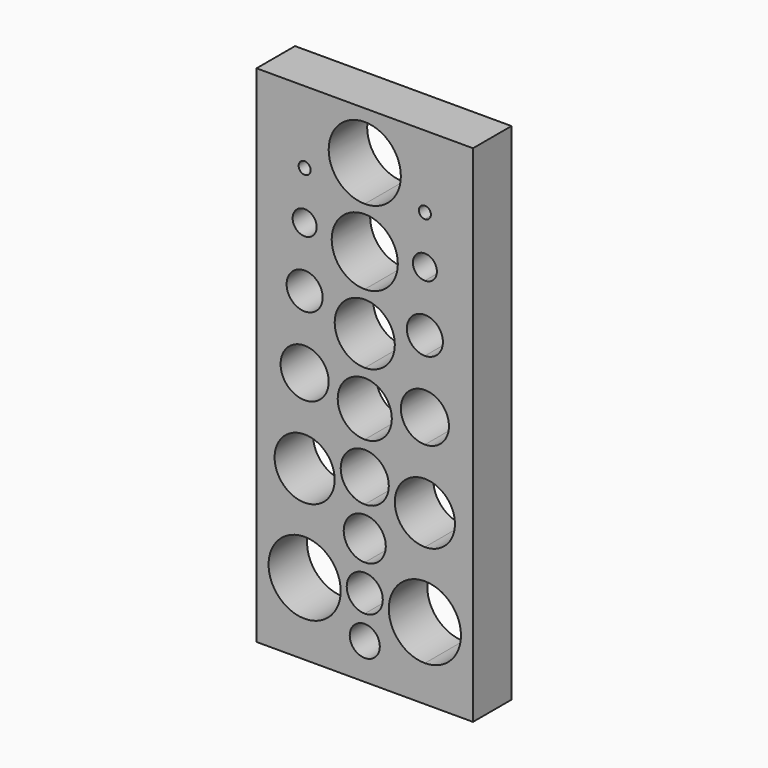
from build123d import *

# Parameters (mm, degrees)
F0_W     = 114.3
F0_H     = 266.7
F1_DEPTH = 25.4
F2_R     = 3.175
F2_R_2   = 6.35
F2_R_3   = 9.525
F2_R_4   = 12.7
F2_R_5   = 15.875
F2_R_6   = 19.05
F3_DEPTH = 25.4
F5_DEPTH = 25.4


with BuildPart() as f1:
    # F0 (on Front) → F1 (new body)
    with BuildSketch(Plane.XZ):
        with Locations((-57.15, 133.35)):
            Rectangle(F0_W, F0_H)
    extrude(amount=F1_DEPTH)

    # F2 (on face) → F3 (cut)
    with BuildSketch(Plane.XZ.offset(25.4)):
        with BuildLine():
            ThreePointArc((-25.4, 57.15), (-44.45, 38.1), (-25.4, 19.05))
            Line((-25.4, 19.05), (-25.4, 38.1))
            Line((-25.4, 38.1), (-25.4, 57.15))
        make_face()
        with BuildLine():
            ThreePointArc((-25.4, 231.775), (-28.575, 228.6), (-25.4, 225.425))
            Line((-25.4, 225.425), (-25.4, 228.6))
            Line((-25.4, 228.6), (-25.4, 231.775))
        make_face()
        with BuildLine():
            Line((-25.4, 228.6), (-25.4, 225.425))
            ThreePointArc((-25.4, 225.425), (-23.154936, 226.354936), (-22.225, 228.6))
            ThreePointArc((-22.225, 228.6), (-23.154936, 230.845064), (-25.4, 231.775))
            Line((-25.4, 231.775), (-25.4, 228.6))
        make_face()
        with BuildLine():
            ThreePointArc((-25.4, 209.55), (-31.75, 203.2), (-25.4, 196.85))
            Line((-25.4, 196.85), (-25.4, 203.2))
            Line((-25.4, 203.2), (-25.4, 209.55))
        make_face()
        with BuildLine():
            Line((-25.4, 203.2), (-25.4, 196.85))
            ThreePointArc((-25.4, 196.85), (-20.909872, 198.709872), (-19.05, 203.2))
            ThreePointArc((-19.05, 203.2), (-20.909872, 207.690128), (-25.4, 209.55))
            Line((-25.4, 209.55), (-25.4, 203.2))
        make_face()
        with BuildLine():
            ThreePointArc((-25.4, 180.975), (-34.925, 171.45), (-25.4, 161.925))
            Line((-25.4, 161.925), (-25.4, 171.45))
            Line((-25.4, 171.45), (-25.4, 180.975))
        make_face()
        with BuildLine():
            Line((-25.4, 171.45), (-25.4, 161.925))
            ThreePointArc((-25.4, 161.925), (-18.664808, 164.714808), (-15.875, 171.45))
            ThreePointArc((-15.875, 171.45), (-18.664808, 178.185192), (-25.4, 180.975))
            Line((-25.4, 180.975), (-25.4, 171.45))
        make_face()
        with BuildLine():
            ThreePointArc((-25.4, 146.05), (-38.1, 133.35), (-25.4, 120.65))
            Line((-25.4, 120.65), (-25.4, 133.35))
            Line((-25.4, 133.35), (-25.4, 146.05))
        make_face()
        with BuildLine():
            Line((-25.4, 133.35), (-25.4, 120.65))
            ThreePointArc((-25.4, 120.65), (-16.419744, 124.369744), (-12.7, 133.35))
            ThreePointArc((-12.7, 133.35), (-16.419744, 142.330256), (-25.4, 146.05))
            Line((-25.4, 146.05), (-25.4, 133.35))
        make_face()
        with BuildLine():
            ThreePointArc((-25.4, 104.775), (-41.275, 88.9), (-25.4, 73.025))
            Line((-25.4, 73.025), (-25.4, 88.9))
            Line((-25.4, 88.9), (-25.4, 104.775))
        make_face()
        with BuildLine():
            Line((-25.4, 88.9), (-25.4, 73.025))
            ThreePointArc((-25.4, 73.025), (-14.17468, 77.67468), (-9.525, 88.9))
            ThreePointArc((-9.525, 88.9), (-14.17468, 100.12532), (-25.4, 104.775))
            Line((-25.4, 104.775), (-25.4, 88.9))
        make_face()
        with BuildLine():
            Line((-25.4, 38.1), (-25.4, 19.05))
            ThreePointArc((-25.4, 19.05), (-11.929616, 24.629616), (-6.35, 38.1))
            ThreePointArc((-6.35, 38.1), (-11.929616, 51.570384), (-25.4, 57.15))
            Line((-25.4, 57.15), (-25.4, 38.1))
        make_face()
        with Locations((-88.9, 228.6)):
            Circle(F2_R)
        with Locations((-88.9, 203.2)):
            Circle(F2_R_2)
        with Locations((-88.9, 171.45)):
            Circle(F2_R_3)
        with Locations((-88.9, 133.35)):
            Circle(F2_R_4)
        with Locations((-88.9, 88.9)):
            Circle(F2_R_5)
        with Locations((-88.9, 38.1)):
            Circle(F2_R_6)
    extrude(amount=-F3_DEPTH, mode=Mode.SUBTRACT)

    # F4 (on face) → F5 (cut)
    with BuildSketch(Plane.XZ.offset(25.4)):
        with BuildLine():
            ThreePointArc((-57.15, 260.35), (-76.2, 241.3), (-57.15, 222.25))
            Line((-57.15, 222.25), (-57.15, 241.3))
            Line((-57.15, 241.3), (-57.15, 260.35))
        make_face()
        with BuildLine():
            Line((-57.15, 241.3), (-57.15, 222.25))
            ThreePointArc((-57.15, 222.25), (-43.679616, 227.829616), (-38.1, 241.3))
            ThreePointArc((-38.1, 241.3), (-43.679616, 254.770384), (-57.15, 260.35))
            Line((-57.15, 260.35), (-57.15, 241.3))
        make_face()
        with BuildLine():
            ThreePointArc((-57.15, 217.4875), (-74.6125, 200.025), (-57.15, 182.5625))
            Line((-57.15, 182.5625), (-57.15, 200.025))
            Line((-57.15, 200.025), (-57.15, 217.4875))
        make_face()
        with BuildLine():
            Line((-57.15, 200.025), (-57.15, 182.5625))
            ThreePointArc((-57.15, 182.5625), (-44.802148, 187.677148), (-39.6875, 200.025))
            ThreePointArc((-39.6875, 200.025), (-44.802148, 212.372852), (-57.15, 217.4875))
            Line((-57.15, 217.4875), (-57.15, 200.025))
        make_face()
        with BuildLine():
            ThreePointArc((-57.15, 177.8), (-73.025, 161.925), (-57.15, 146.05))
            Line((-57.15, 146.05), (-57.15, 161.925))
            Line((-57.15, 161.925), (-57.15, 177.8))
        make_face()
        with BuildLine():
            Line((-57.15, 161.925), (-57.15, 146.05))
            ThreePointArc((-57.15, 146.05), (-45.92468, 150.69968), (-41.275, 161.925))
            ThreePointArc((-41.275, 161.925), (-45.92468, 173.15032), (-57.15, 177.8))
            Line((-57.15, 177.8), (-57.15, 161.925))
        make_face()
        with BuildLine():
            ThreePointArc((-57.15, 141.2875), (-71.4375, 127), (-57.15, 112.7125))
            Line((-57.15, 112.7125), (-57.15, 127))
            Line((-57.15, 127), (-57.15, 141.2875))
        make_face()
        with BuildLine():
            Line((-57.15, 127), (-57.15, 112.7125))
            ThreePointArc((-57.15, 112.7125), (-47.047212, 116.897212), (-42.8625, 127))
            ThreePointArc((-42.8625, 127), (-47.047212, 137.102788), (-57.15, 141.2875))
            Line((-57.15, 141.2875), (-57.15, 127))
        make_face()
        with BuildLine():
            ThreePointArc((-57.15, 107.95), (-69.85, 95.25), (-57.15, 82.55))
            Line((-57.15, 82.55), (-57.15, 95.25))
            Line((-57.15, 95.25), (-57.15, 107.95))
        make_face()
        with BuildLine():
            Line((-57.15, 95.25), (-57.15, 82.55))
            ThreePointArc((-57.15, 82.55), (-48.169744, 86.269744), (-44.45, 95.25))
            ThreePointArc((-44.45, 95.25), (-48.169744, 104.230256), (-57.15, 107.95))
            Line((-57.15, 107.95), (-57.15, 95.25))
        make_face()
        with BuildLine():
            ThreePointArc((-57.15, 77.7875), (-68.2625, 66.675), (-57.15, 55.5625))
            Line((-57.15, 55.5625), (-57.15, 66.675))
            Line((-57.15, 66.675), (-57.15, 77.7875))
        make_face()
        with BuildLine():
            Line((-57.15, 66.675), (-57.15, 55.5625))
            ThreePointArc((-57.15, 55.5625), (-49.292276, 58.817276), (-46.0375, 66.675))
            ThreePointArc((-46.0375, 66.675), (-49.292276, 74.532724), (-57.15, 77.7875))
            Line((-57.15, 77.7875), (-57.15, 66.675))
        make_face()
        with BuildLine():
            ThreePointArc((-57.15, 50.8), (-66.675, 41.275), (-57.15, 31.75))
            Line((-57.15, 31.75), (-57.15, 41.275))
            Line((-57.15, 41.275), (-57.15, 50.8))
        make_face()
        with BuildLine():
            Line((-57.15, 41.275), (-57.15, 31.75))
            ThreePointArc((-57.15, 31.75), (-50.414808, 34.539808), (-47.625, 41.275))
            ThreePointArc((-47.625, 41.275), (-50.414808, 48.010192), (-57.15, 50.8))
            Line((-57.15, 50.8), (-57.15, 41.275))
        make_face()
        with BuildLine():
            ThreePointArc((-49.2125, 19.05), (-51.53734, 24.66266), (-57.15, 26.9875))
            ThreePointArc((-57.15, 26.9875), (-62.76266, 13.43734), (-49.2125, 19.05))
        make_face()
    extrude(amount=-F5_DEPTH, mode=Mode.SUBTRACT)


solid = f1.part
